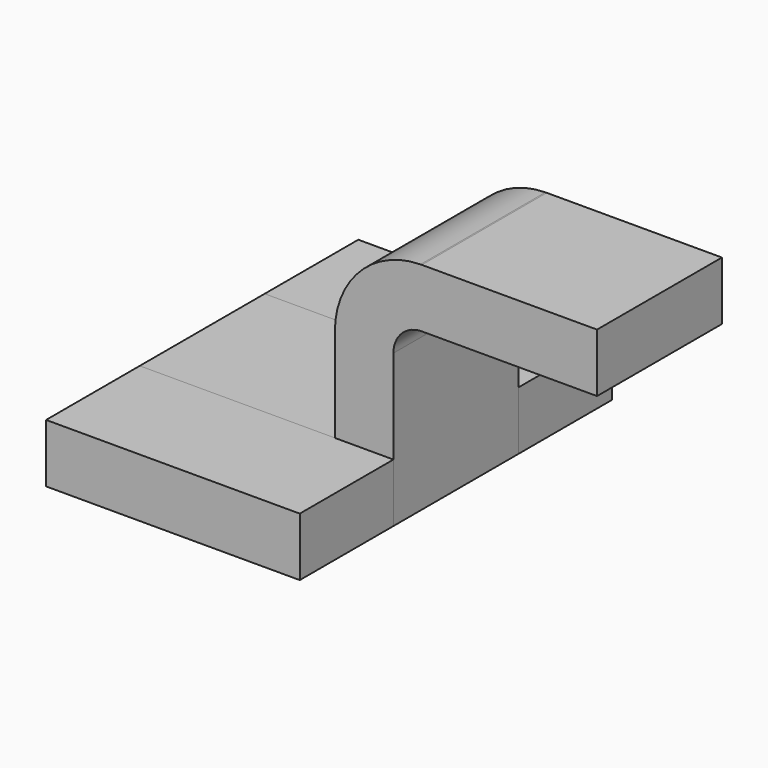
from build123d import *

# Parameters (mm, degrees)
F1_DEPTH = 63.5
F0_W     = 38.1
F0_H     = 19.05
F2_DEPTH = 25.4


with BuildPart() as f1:
    # F0 (on Front) → F1 (new body, symmetric)
    with BuildSketch(Plane.XZ):
        Polygon((-41.275, 9.525), (-41.275, -9.525), (41.275, -9.525), (41.275, 9.525), (22.225, 9.525), align=None)
    extrude(amount=F1_DEPTH, both=True)


with BuildPart() as f2:
    # F0 (on Front) → F2 (new body, symmetric)
    with BuildSketch(Plane.XZ):
        with BuildLine():
            Line((22.225, 9.525), (41.275, 9.525))
            Line((41.275, 9.525), (41.275, 40.005))
            ThreePointArc((41.275, 40.005), (43.9839821531, 46.5450614543), (50.5240436075, 49.2540436075))
            Line((50.5240436075, 49.2540436075), (69.432207522, 49.2540436075))
            Line((69.432207522, 49.2540436075), (69.432207522, 68.3040436075))
            Line((69.432207522, 68.3040436075), (50.5240436075, 68.3040436075))
            add(Edge.make_bspline(
                [(50.0888017007, 68.3006963791), (50.2336546011, 68.3019021596), (50.3787351185, 68.3030179477), (50.5240436075, 68.3040436075)],
                knots=[108.8022292146, 108.8022292146, 108.8022292146, 108.8022292146, 109.0047722563, 109.0047722563, 109.0047722563, 109.0047722563], degree=3))
            ThreePointArc((50.0888017007, 68.3006963791), (30.3603038899, 59.8609681129), (22.225, 40.005))
            Line((22.225, 40.005), (22.225, 9.525))
        make_face()
        Polygon((-41.275, 9.525), (-41.275, -9.525), (41.275, -9.525), (41.275, 9.525), (22.225, 9.525), align=None)
        with BuildLine():
            Line((22.225, 9.525), (41.275, 9.525))
            Line((41.275, 9.525), (41.275, 40.005))
            ThreePointArc((41.275, 40.005), (43.9839821531, 46.5450614543), (50.5240436075, 49.2540436075))
            Line((50.5240436075, 49.2540436075), (69.432207522, 49.2540436075))
            Line((69.432207522, 49.2540436075), (69.432207522, 68.3040436075))
            Line((69.432207522, 68.3040436075), (50.5240436075, 68.3040436075))
            add(Edge.make_bspline(
                [(50.0888017007, 68.3006963791), (50.2336546011, 68.3019021596), (50.3787351185, 68.3030179477), (50.5240436075, 68.3040436075)],
                knots=[108.8022292146, 108.8022292146, 108.8022292146, 108.8022292146, 109.0047722563, 109.0047722563, 109.0047722563, 109.0047722563], degree=3))
            ThreePointArc((50.0888017007, 68.3006963791), (30.3603038899, 59.8609681129), (22.225, 40.005))
            Line((22.225, 40.005), (22.225, 9.525))
        make_face()
        with Locations((88.482207522, 58.7790436075)):
            Rectangle(F0_W, F0_H)
    extrude(amount=F2_DEPTH, both=True)


solid = Compound([f1.part, f2.part])
